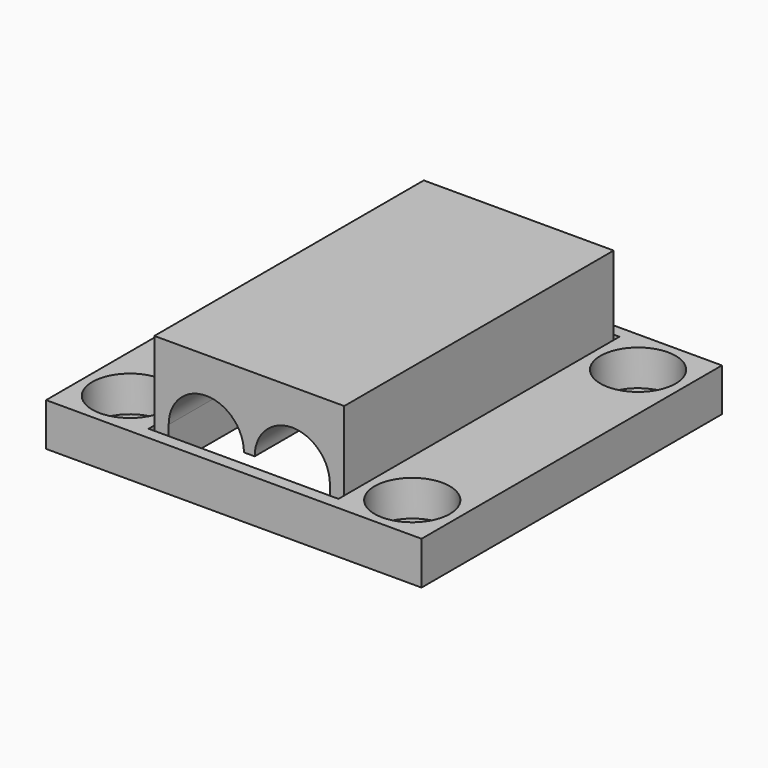
from build123d import *

# Parameters (mm, degrees)
SKETCH_W        = 52.4
SKETCH_H        = 52.4
PAD_DEPTH       = 6
SKETCH001_R     = 5.25
POCKET_DEPTH    = 5
SKETCH003_W     = 26.5
SKETCH003_H     = 9.486992
POCKET001_DEPTH = 24.5
PAD001_DEPTH    = 23.5


with BuildPart() as part:
    # Sketch → Pad (new body)
    with BuildSketch(Plane.XY):
        with Locations((26.2, -26.2)):
            Rectangle(SKETCH_W, SKETCH_H)
    extrude(amount=PAD_DEPTH)

    # Sketch001 (on Face6 of Pad) → Pocket (cut)
    with BuildSketch(Plane.XY.offset(6)):
        with Locations((6.5, -6.5)):
            Circle(SKETCH001_R)
        with Locations((45.9, -6.5)):
            Circle(SKETCH001_R)
        with Locations((45.9, -45.9)):
            Circle(SKETCH001_R)
        with Locations((6.5, -45.9)):
            Circle(SKETCH001_R)
    extrude(amount=-POCKET_DEPTH, mode=Mode.SUBTRACT)

    # Sketch003 (on DatumPlane) → Pocket001 (cut, symmetric)
    with BuildSketch(Plane.XZ.offset(26.2)):
        with Locations((26.2, 4.743496)):
            Rectangle(SKETCH003_W, SKETCH003_H)
    extrude(amount=POCKET001_DEPTH, both=True, mode=Mode.SUBTRACT)

    # Sketch004 (on DatumPlane) → Pad001 (join, symmetric)
    with BuildSketch(Plane.XZ.offset(26.2)):
        with BuildLine():
            ThreePointArc((25.45, 6.75), (20.2, 12), (14.95, 6.75))
            Line((14.95, 1.5), (14.95, 6.75))
            Line((12.95, 1.5), (14.95, 1.5))
            Line((12.95, 17), (12.95, 1.5))
            Line((12.95, 17), (39.45, 17))
            Line((39.45, 1.5), (39.45, 17))
            Line((37.45, 1.5), (39.45, 1.5))
            Line((37.45, 6.75), (37.45, 1.5))
            ThreePointArc((37.45, 6.75), (32.2, 12), (26.95, 6.75))
            Line((25.45, 6.75), (26.95, 6.75))
        make_face()
    extrude(amount=PAD001_DEPTH, both=True)


solid = part.part
